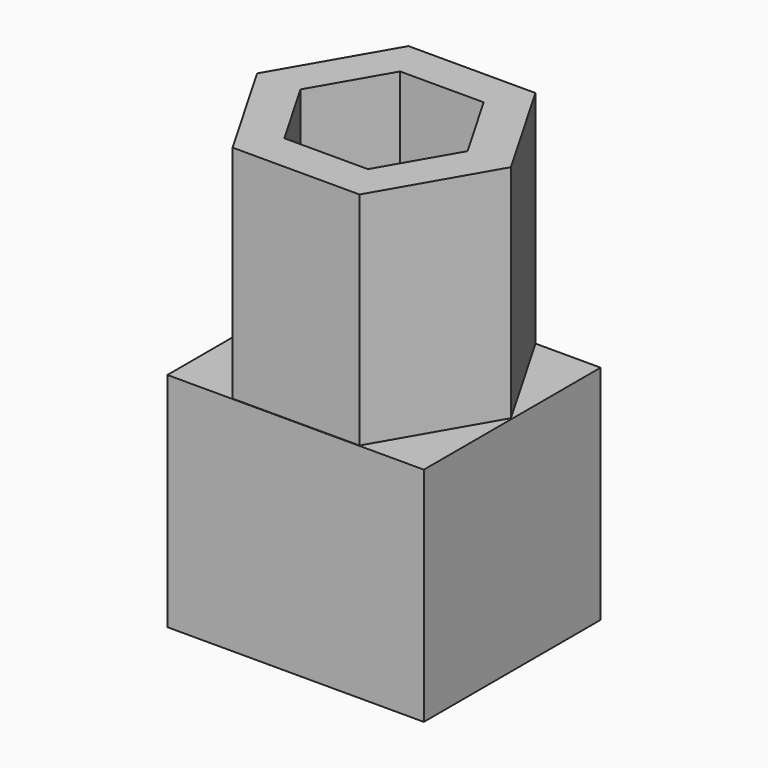
from build123d import *

# Parameters (mm, degrees)
SKETCH_W     = 23.20948
SKETCH_H     = 20.1
PAD_DEPTH    = 20
PAD001_DEPTH = 20
POCKET_DEPTH = 37.1


with BuildPart() as part:
    # Sketch → Pad (new body)
    with BuildSketch(Plane.XZ):
        Rectangle(SKETCH_W, SKETCH_H)
    extrude(amount=PAD_DEPTH)

    # Sketch001 (on DatumPlane) → Pad001 (join)
    with BuildSketch(Plane(origin=(0, 0, 10.05), x_dir=(-1, 0, 0), z_dir=(0, 0, 1))):
        Polygon((-5.744635, 19.95), (-11.48927, 10), (-5.744635, 0.05), (5.744635, 0.05), (11.48927, 10), (5.744635, 19.95), align=None)
    extrude(amount=PAD001_DEPTH)

    # Sketch002 (on Face13 of Pad001) → Pocket (cut)
    with BuildSketch(Plane(origin=(0, 0, 30.05), x_dir=(-1, 0, 0), z_dir=(0, 0, 1))):
        Polygon((3.781644, 16.55), (-3.781644, 16.55), (-7.563289, 10), (-3.781644, 3.45), (3.781644, 3.45), (7.563289, 10), align=None)
    extrude(amount=-POCKET_DEPTH, mode=Mode.SUBTRACT)


solid = part.part
